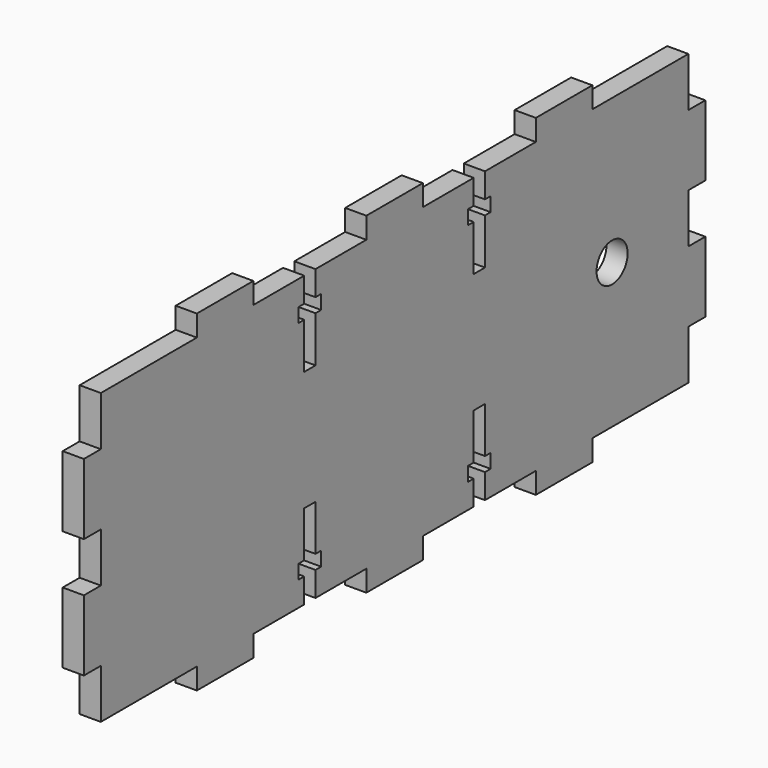
from build123d import *

# Parameters (mm, degrees)
F0_R     = 2.75
F1_DEPTH = 3


with BuildPart() as f1:
    # F0 (on Right) → F1 (new body)
    with BuildSketch(Plane.YZ):
        Polygon((0, 7), (0, 0), (17, 0), (17, -3), (27, -3), (27, 0), (33.535082, 0), (36, 0), (36, 3.5), (35, 3.5), (35, 5.5), (36, 5.5), (36, 12), (38, 12), (38, 5.5), (39, 5.5), (39, 3.5), (38, 3.5), (38, 0), (38.090959, 0), (47, 0), (47, -3), (52, -3), (57, -3), (57, 0), (65.909041, 0), (66, 0), (66, 3.5), (65, 3.5), (65, 5.5), (66, 5.5), (66, 12), (68, 12), (68, 5.5), (69, 5.5), (69, 3.5), (68, 3.5), (68, 0), (70.464918, 0), (77, 0), (77, -3), (87, -3), (87, 0), (104, 0), (104, 7), (107, 7), (107, 17), (104, 17), (104, 24), (107, 24), (107, 34), (104, 34), (104, 41), (87, 41), (87, 44), (77, 44), (77, 41), (70.464918, 41), (68, 41), (68, 37.5), (69, 37.5), (69, 35.5), (68, 35.5), (68, 29), (66, 29), (66, 35.5), (65, 35.5), (65, 37.5), (66, 37.5), (66, 41), (65.909041, 41), (57, 41), (57, 44), (52, 44), (47, 44), (47, 41), (38.090959, 41), (38, 41), (38, 37.5), (39, 37.5), (39, 35.5), (38, 35.5), (38, 29), (36, 29), (36, 35.5), (35, 35.5), (35, 37.5), (36, 37.5), (36, 41), (33.535082, 41), (27, 41), (27, 44), (17, 44), (17, 41), (0, 41), (0, 34), (-3, 34), (-3, 24), (0, 24), (0, 17), (-3, 17), (-3, 7), align=None)
        with Locations((90.5, 20.5)):
            Circle(F0_R, mode=Mode.SUBTRACT)
    extrude(amount=F1_DEPTH)


solid = f1.part
